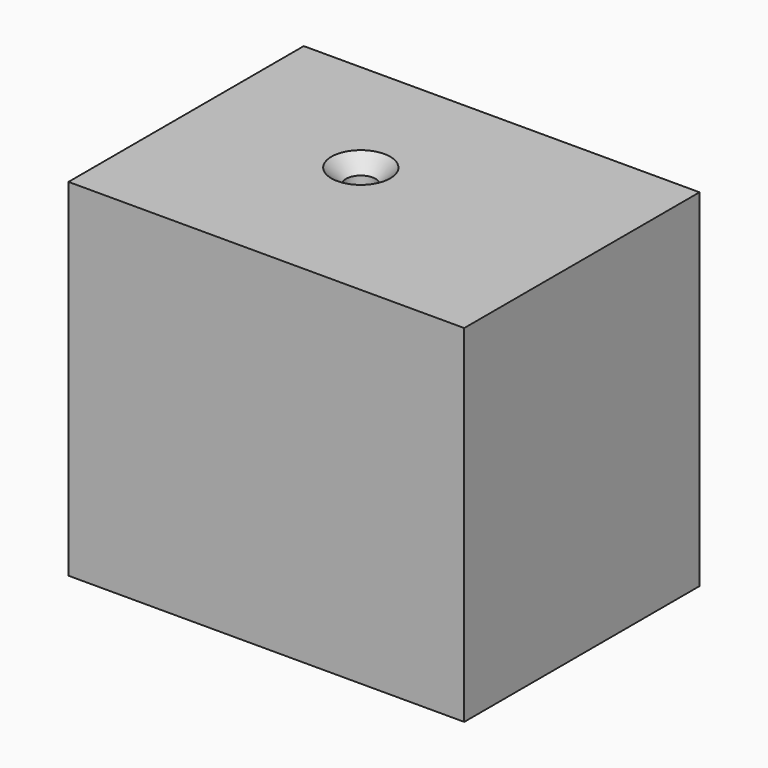
from build123d import *

# Parameters (mm, degrees)
F0_W           = 67.286568
F0_H           = 58.953825
F1_DEPTH       = 50
F3_D           = 5
F3_CSINK_D     = 10
F3_CSINK_ANGLE = 90


with BuildPart() as f1:
    # F0 (on Front) → F1 (new body)
    with BuildSketch(Plane.XZ):
        with Locations((5.915298, 1.707598)):
            Rectangle(F0_W, F0_H)
    extrude(amount=F1_DEPTH)

    # F3 (through all)
    with Locations(Plane.XY.offset(31.184511)):
        with Locations((0, -22.531725)):
            CounterSinkHole(F3_D / 2, F3_CSINK_D / 2, counter_sink_angle=F3_CSINK_ANGLE)


solid = f1.part
